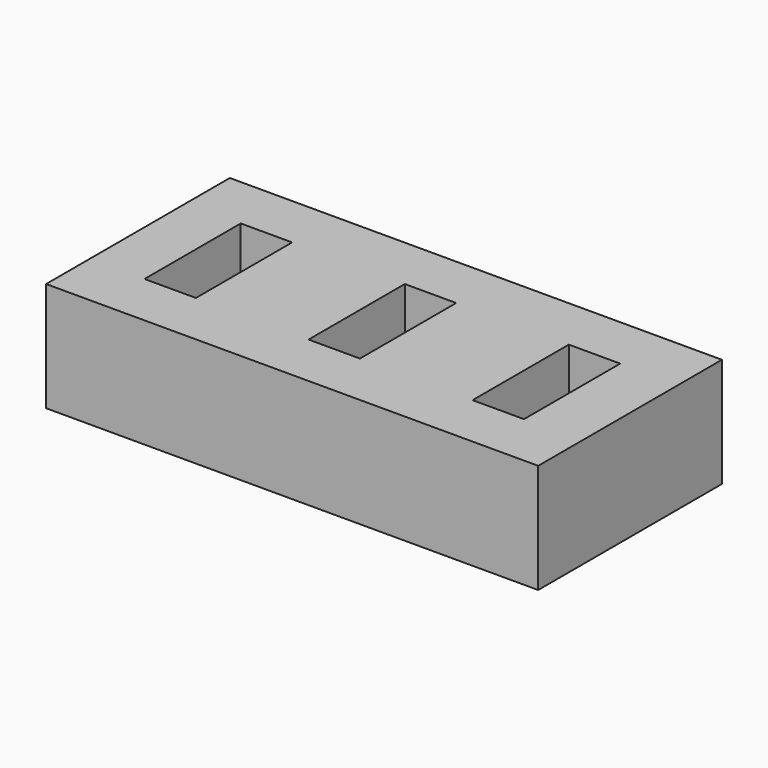
from build123d import *

# Parameters (mm, degrees)
BOX001_W     = 4.7
BOX001_H     = 11
BOX001_DEPTH = 12
BOX002_W     = 4.7
BOX002_H     = 11
BOX002_DEPTH = 12
BOX_W        = 4.7
BOX_H        = 11
BOX_DEPTH    = 12
BOX003_W     = 45
BOX003_H     = 21
BOX003_DEPTH = 10


with BuildPart() as ranura001:
    # Box001 → Box001 (new body)
    with BuildSketch(Plane(origin=(15, 0, 0), x_dir=(1, 0, 0), z_dir=(0, 0, 1))):
        with Locations((2.35, 5.5)):
            Rectangle(BOX001_W, BOX001_H)
    extrude(amount=BOX001_DEPTH)


with BuildPart() as ranura002:
    # Box002 → Box002 (new body)
    with BuildSketch(Plane(origin=(30, 0, 0), x_dir=(1, 0, 0), z_dir=(0, 0, 1))):
        with Locations((2.35, 5.5)):
            Rectangle(BOX002_W, BOX002_H)
    extrude(amount=BOX002_DEPTH)


with BuildPart() as obj1:
    # Box → Box (new body)
    with BuildSketch(Plane.XY):
        with Locations((2.35, 5.5)):
            Rectangle(BOX_W, BOX_H)
    extrude(amount=BOX_DEPTH)

    # Fusion: union ranura001, ranura002
    add(ranura001.part)
    add(ranura002.part)


with BuildPart() as obj1_1:
    # Fusion placement: moved
    add(obj1.part.moved(Location((5, 5, 3))))


with BuildPart() as cut:
    # Box003 → Box003 (new body)
    with BuildSketch(Plane.XY):
        with Locations((22.5, 10.5)):
            Rectangle(BOX003_W, BOX003_H)
    extrude(amount=BOX003_DEPTH)

    # Cut: cut obj1
    add(obj1_1.part, mode=Mode.SUBTRACT)


solid = cut.part
